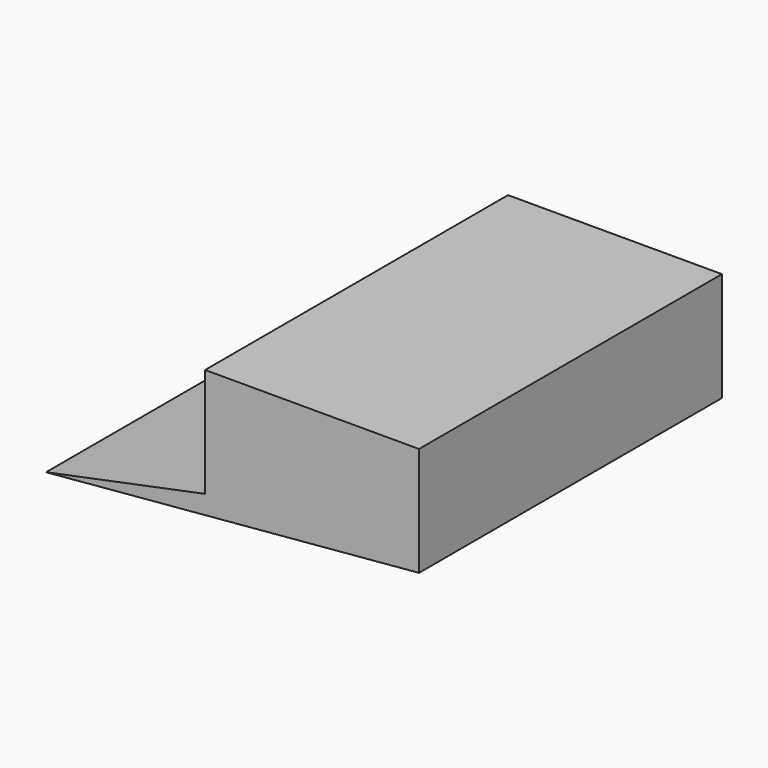
from build123d import *

# Parameters (mm, degrees)
F0_W     = 20
F0_H     = 35.4
F1_DEPTH = 10.2
F3_DEPTH = 17
F5_DEPTH = 35.4


with BuildPart() as f1:
    # F0 (on Top) → F1 (new body)
    with BuildSketch(Plane.XY):
        with Locations((-10, 17.7)):
            Rectangle(F0_W, F0_H)
    extrude(amount=F1_DEPTH)

    # F2 (on face) → F3 (cut)
    with BuildSketch(Plane(origin=(-20, 0, 0), x_dir=(0, -1, 0), z_dir=(-1, 0, 0))):
        Polygon((-5, 5.95), (-5, 7.2), (-30.4, 7.2), (-30.4, 5.95), (-29.4, 5.95), (-29.4, 4.25), (-30.4, 4.25), (-30.4, 3), (-5, 3), (-5, 4.25), (-6, 4.25), (-6, 5.95), align=None)
    extrude(amount=-F3_DEPTH, mode=Mode.SUBTRACT)

    # F4 (on face) → F5 (join)
    with BuildSketch(Plane.XZ):
        Polygon((-34.866854, -3.05), (0, 0), (-20, 0), align=None)
    extrude(amount=-F5_DEPTH)


solid = f1.part
